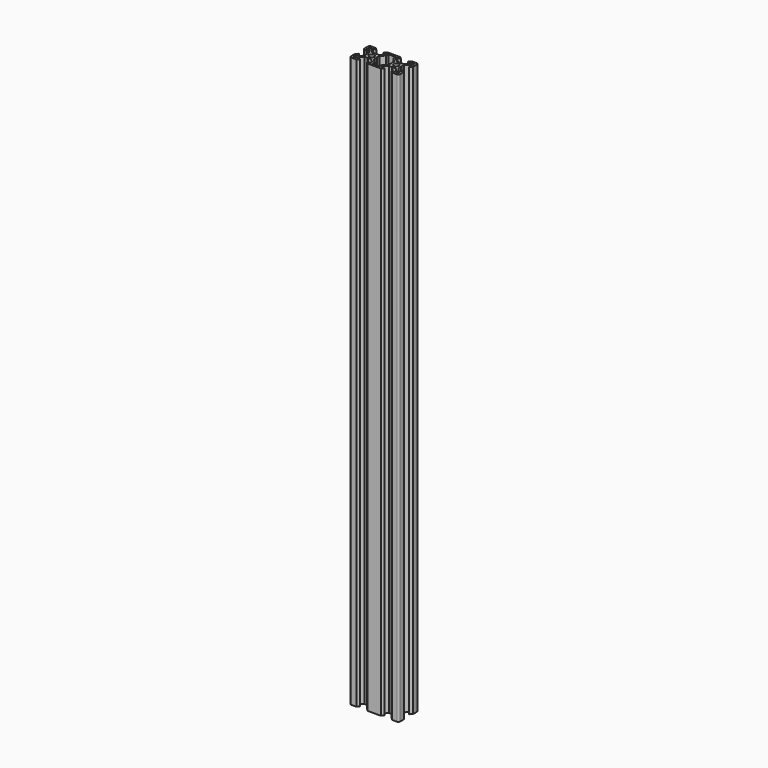
from build123d import *

# Parameters (mm, degrees)
F0_R     = 2.1
F1_DEPTH = 465


with BuildPart() as f1:
    # F0 (on Top) → F1 (new body)
    with BuildSketch(Plane.XY):
        with BuildLine():
            Line((-5.398544, -10.060897), (-1.538544, -10.060897))
            Line((-1.538544, -10.060897), (1.461456, -10.060897))
            Line((1.461456, -10.060897), (5.321456, -10.060897))
            Line((5.321456, -10.060897), (7.121456, -8.260897))
            Line((7.121456, -8.260897), (4.462116, -8.260897))
            Line((4.462116, -8.260897), (4.462116, -6.620897))
            Line((4.462116, -6.620897), (7.121456, -3.961557))
            Line((7.121456, -3.961557), (9.711456, -3.961557))
            Line((9.711456, -3.961557), (9.961456, -3.711557))
            Line((9.961456, -3.711557), (10.211456, -3.961557))
            Line((10.211456, -3.961557), (12.801456, -3.961557))
            Line((12.801456, -3.961557), (15.460796, -6.620897))
            Line((15.460796, -6.620897), (15.460796, -8.260897))
            Line((15.460796, -8.260897), (12.801456, -8.260897))
            Line((12.801456, -8.260897), (14.601456, -10.060897))
            Line((14.601456, -10.060897), (18.461456, -10.060897))
            ThreePointArc((18.461456, -10.060897), (19.522116, -9.621557), (19.961456, -8.560897))
            Line((19.961456, -8.560897), (19.961456, -4.700897))
            Line((19.961456, -4.700897), (18.161456, -2.900897))
            Line((18.161456, -2.900897), (18.161456, -5.560237))
            Line((18.161456, -5.560237), (16.521456, -5.560237))
            Line((16.521456, -5.560237), (13.862116, -2.900897))
            Line((13.862116, -2.900897), (13.862116, -0.310897))
            Line((13.862116, -0.310897), (13.612116, -0.060897))
            Line((13.612116, -0.060897), (13.862116, 0.189103))
            Line((13.862116, 0.189103), (13.862116, 2.779103))
            Line((13.862116, 2.779103), (16.521456, 5.438443))
            Line((16.521456, 5.438443), (18.161456, 5.438443))
            Line((18.161456, 5.438443), (18.161456, 2.779103))
            Line((18.161456, 2.779103), (19.961456, 4.579103))
            Line((19.961456, 4.579103), (19.961456, 8.439103))
            ThreePointArc((19.961456, 8.439103), (19.522116, 9.499763), (18.461456, 9.939103))
            Line((18.461456, 9.939103), (14.601456, 9.939103))
            Line((14.601456, 9.939103), (12.801456, 8.139103))
            Line((12.801456, 8.139103), (15.460796, 8.139103))
            Line((15.460796, 8.139103), (15.460796, 6.499103))
            Line((15.460796, 6.499103), (12.801456, 3.839763))
            Line((12.801456, 3.839763), (10.211456, 3.839763))
            Line((10.211456, 3.839763), (9.961456, 3.589763))
            Line((9.961456, 3.589763), (9.711456, 3.839763))
            Line((9.711456, 3.839763), (7.121456, 3.839763))
            Line((7.121456, 3.839763), (4.462116, 6.499103))
            Line((4.462116, 6.499103), (4.462116, 8.139103))
            Line((4.462116, 8.139103), (7.121456, 8.139103))
            Line((7.121456, 8.139103), (5.321456, 9.939103))
            Line((5.321456, 9.939103), (1.461456, 9.939103))
            Line((1.461456, 9.939103), (-1.538544, 9.939103))
            Line((-1.538544, 9.939103), (-5.398544, 9.939103))
            Line((-5.398544, 9.939103), (-7.198544, 8.139103))
            Line((-7.198544, 8.139103), (-4.539204, 8.139103))
            Line((-4.539204, 8.139103), (-4.539204, 6.499103))
            Line((-4.539204, 6.499103), (-7.198544, 3.839763))
            Line((-7.198544, 3.839763), (-9.788544, 3.839763))
            Line((-9.788544, 3.839763), (-10.038544, 3.589763))
            Line((-10.038544, 3.589763), (-10.288544, 3.839763))
            Line((-10.288544, 3.839763), (-12.878544, 3.839763))
            Line((-12.878544, 3.839763), (-15.537884, 6.499103))
            Line((-15.537884, 6.499103), (-15.537884, 8.139103))
            Line((-15.537884, 8.139103), (-12.878544, 8.139103))
            Line((-12.878544, 8.139103), (-14.678544, 9.939103))
            Line((-14.678544, 9.939103), (-18.538544, 9.939103))
            ThreePointArc((-18.538544, 9.939103), (-19.599204, 9.499763), (-20.038544, 8.439103))
            Line((-20.038544, 8.439103), (-20.038544, 4.579103))
            Line((-20.038544, 4.579103), (-18.238544, 2.779103))
            Line((-18.238544, 2.779103), (-18.238544, 5.438443))
            Line((-18.238544, 5.438443), (-16.598544, 5.438443))
            Line((-16.598544, 5.438443), (-13.939204, 2.779103))
            Line((-13.939204, 2.779103), (-13.939204, 0.189103))
            Line((-13.939204, 0.189103), (-13.689204, -0.060897))
            Line((-13.689204, -0.060897), (-13.939204, -0.310897))
            Line((-13.939204, -0.310897), (-13.939204, -2.900897))
            Line((-13.939204, -2.900897), (-16.598544, -5.560237))
            Line((-16.598544, -5.560237), (-18.238544, -5.560237))
            Line((-18.238544, -5.560237), (-18.238544, -2.900897))
            Line((-18.238544, -2.900897), (-20.038544, -4.700897))
            Line((-20.038544, -4.700897), (-20.038544, -8.560897))
            ThreePointArc((-20.038544, -8.560897), (-19.599204, -9.621557), (-18.538544, -10.060897))
            Line((-18.538544, -10.060897), (-14.678544, -10.060897))
            Line((-14.678544, -10.060897), (-12.878544, -8.260897))
            Line((-12.878544, -8.260897), (-15.537884, -8.260897))
            Line((-15.537884, -8.260897), (-15.537884, -6.620897))
            Line((-15.537884, -6.620897), (-12.878544, -3.961557))
            Line((-12.878544, -3.961557), (-10.288544, -3.961557))
            Line((-10.288544, -3.961557), (-10.038544, -3.711557))
            Line((-10.038544, -3.711557), (-9.788544, -3.961557))
            Line((-9.788544, -3.961557), (-7.198544, -3.961557))
            Line((-7.198544, -3.961557), (-4.539204, -6.620897))
            Line((-4.539204, -6.620897), (-4.539204, -8.260897))
            Line((-4.539204, -8.260897), (-7.198544, -8.260897))
            Line((-7.198544, -8.260897), (-5.398544, -10.060897))
        make_face()
        Polygon((-16.607884, -7.690897), (-16.607884, -8.260897), (-18.238544, -8.260897), (-18.238544, -6.630237), (-17.668544, -6.630237), align=None, mode=Mode.SUBTRACT)
        Polygon((17.591456, -6.630237), (18.161456, -6.630237), (18.161456, -8.260897), (16.530796, -8.260897), (16.530796, -7.690897), align=None, mode=Mode.SUBTRACT)
        with Locations((-10.038544, -0.060897)):
            Circle(F0_R, mode=Mode.SUBTRACT)
        Polygon((-17.668544, 6.508443), (-18.238544, 6.508443), (-18.238544, 8.139103), (-16.607884, 8.139103), (-16.607884, 7.569103), align=None, mode=Mode.SUBTRACT)
        Polygon((-6.137884, 2.779103), (-3.478544, 5.438443), (-3.039204, 5.877783), (-3.039204, 8.139103), (2.962116, 8.139103), (2.962116, 5.877783), (3.401456, 5.438443), (6.060796, 2.779103), (6.060796, 0.189103), (6.310796, -0.060897), (6.060796, -0.310897), (6.060796, -2.900897), (3.401456, -5.560237), (2.962116, -5.999577), (2.962116, -8.260897), (-3.039204, -8.260897), (-3.039204, -5.999577), (-3.478544, -5.560237), (-6.137884, -2.900897), (-6.137884, -0.310897), (-6.387884, -0.060897), (-6.137884, 0.189103), align=None, mode=Mode.SUBTRACT)
        with Locations((9.961456, -0.060897)):
            Circle(F0_R, mode=Mode.SUBTRACT)
        Polygon((18.161456, 8.139103), (18.161456, 6.508443), (17.591456, 6.508443), (16.530796, 7.569103), (16.530796, 8.139103), align=None, mode=Mode.SUBTRACT)
    extrude(amount=F1_DEPTH)


solid = f1.part
